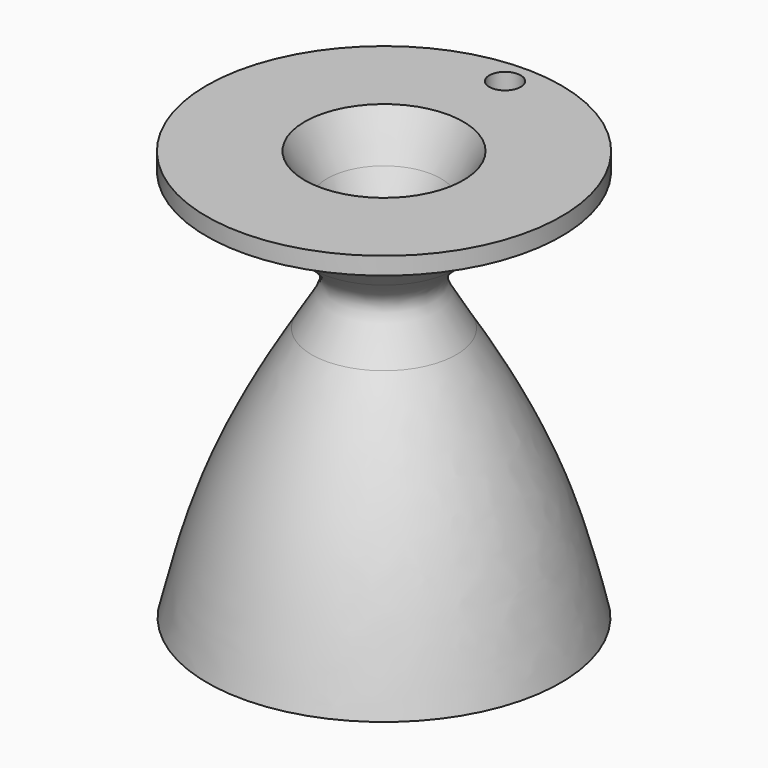
from build123d import *

# Parameters (mm, degrees)
F4_D     = 6.35
F4_DEPTH = 12.7
F4_TIP   = 1.9077324654


with BuildPart() as f1:
    # F0 (on Front) → F1 (revolve)
    with BuildSketch(Plane.XZ):
        with BuildLine():
            add(Edge.make_bspline(
                [(-35.711620003, 0), (-33.6991355754, 8.3739323563), (-29.3174594603, 25.4988872735), (-19.6445835619, 43.3868067126), (-14.6126173957, 51.4680505725)],
                knots=[0, 0, 0, 0, 0.4850144004, 1, 1, 1, 1], degree=3))
            Line((-35.711620003, 0), (-31.3956774771, 0))
            add(Edge.make_bspline(
                [(-31.3956774771, 0), (-29.3449089655, 7.9159356711), (-25.0874906142, 24.3495041979), (-16.1110445435, 41.0247078901), (-11.4584900439, 49.6675819159)],
                knots=[0, 0, 0, 0, 0.4816930958, 1, 1, 1, 1], degree=3))
            add(Edge.make_bspline(
                [(-11.4584900439, 49.6675819159), (-9.2111257589, 52.9541958774), (-3.7759486318, 61.5209078018), (-9.2010886072, 69.393788099), (-11.4584900439, 74.3316113949)],
                knots=[0, 0, 0, 0, 0.4840360956, 1, 1, 1, 1], degree=3))
            Line((-11.4584900439, 74.3316113949), (-16.0165019333, 82.9376876354))
            Line((-16.0165019333, 82.9376876354), (-35.8239077032, 82.9376876354))
            Line((-35.8239077032, 82.9376876354), (-35.8239077032, 79.4118791819))
            Line((-35.8239077032, 79.4118791819), (-22.5325617939, 73.6162364483))
            Line((-22.5325617939, 73.6162364483), (-14.6126173957, 66.6863429164))
            add(Edge.make_bspline(
                [(-14.6126173957, 51.4680505725), (-12.1953186939, 55.8042941924), (-8.853870956, 59.7288834218), (-10.7295096303, 63.5019995765), (-14.6126173957, 66.6863429164)],
                knots=[0, 0, 0, 0, 0.5184258095, 1, 1, 1, 1], degree=3))
        make_face()
    revolve(axis=Axis((0, 0, 6.4593851566), (0, 0, 1)))

    # F4
    with Locations(Plane.XY.offset(82.9376876354)):
        with Locations((0, 30.5442549288)):
            Hole(F4_D / 2, depth=F4_DEPTH)
            with Locations((0, 0, -(F4_DEPTH + F4_TIP / 2))):  # 118° drill point
                Cone(0, F4_D / 2, F4_TIP, mode=Mode.SUBTRACT)


solid = f1.part
